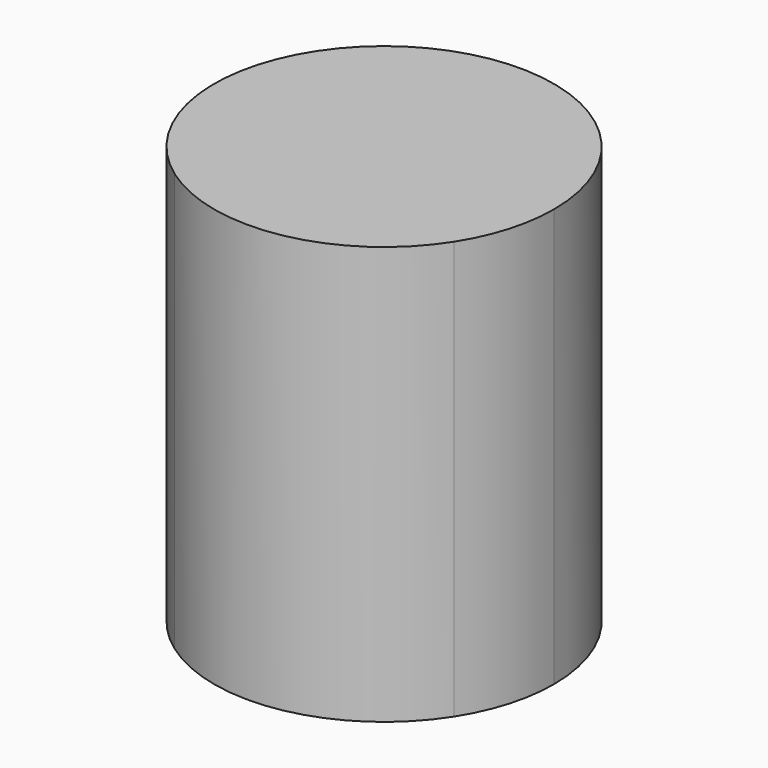
from build123d import *

# Parameters (mm, degrees)
F1_DEPTH = 25


with BuildPart() as f1:
    # F0 (on Top) → F1 (new body)
    with BuildSketch(Plane.XY):
        with BuildLine():
            Line((34.1039038031, 31.7237339914), (41.3348975886, 33.1284609855))
            Line((41.3348975886, 33.1284609855), (48.5658914214, 34.5331879888))
            ThreePointArc((48.5658914214, 34.5331879888), (49.7546068473, 37.1525143259), (50.1617188216, 40))
            ThreePointArc((50.1617188216, 40), (35.3445699602, 49.03257995), (34.1039038031, 31.7237339914))
        make_face()
        with BuildLine():
            ThreePointArc((41.3348975886, 33.1284609855), (34.5988758985, 44.4528483513), (47, 40))
            ThreePointArc((47, 40), (45.4011241015, 35.5471516487), (41.3348975886, 33.1284609855))
        make_face(mode=Mode.SUBTRACT)
        with BuildLine():
            ThreePointArc((41.3348975886, 33.1284609855), (45.4011241015, 35.5471516487), (47, 40))
            ThreePointArc((47, 40), (34.5988758985, 44.4528483513), (41.3348975886, 33.1284609855))
        make_face()
        with BuildLine():
            Line((48.5658914214, 34.5331879888), (41.3348975886, 33.1284609855))
            Line((41.3348975886, 33.1284609855), (34.1039038031, 31.7237339914))
            ThreePointArc((34.1039038031, 31.7237339914), (41.937836313, 30.0247646728), (48.5658914214, 34.5331879888))
        make_face()
    extrude(amount=F1_DEPTH)


solid = f1.part
